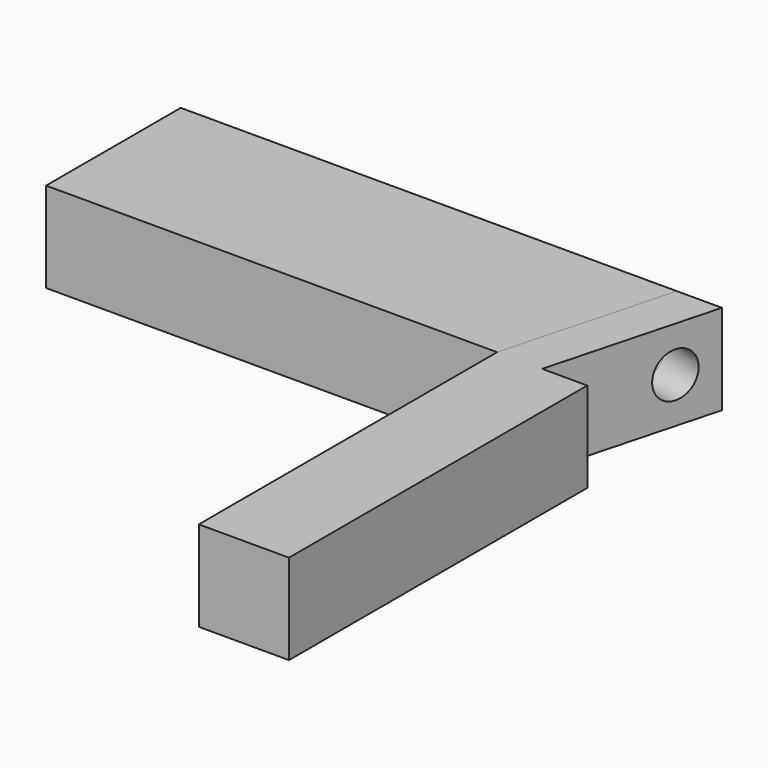
from build123d import *

# Parameters (mm, degrees)
F1_DEPTH = 10
F0_W     = 50
F0_H     = 18.660254
F2_DEPTH = 10
F4_D     = 5
F4_2_D   = 5


with BuildPart() as f1:
    # F0 (on Top) → F1 (new body)
    with BuildSketch(Plane.XY):
        Polygon((10, 0), (5, 0), (0, -18.660254), (0, -60), (10, -60), (10, -18.660254), (5, -18.660254), align=None)
    extrude(amount=F1_DEPTH)

    # F4 (through all)
    with Locations(Plane(origin=(9.330127, -2.5, 0), x_dir=(0.258819, 0.965926, 0), z_dir=(0.965926, -0.258819, 0))):
        with Locations((-2.41181, 5)):
            Hole(F4_D / 2)


with BuildPart() as f2:
    # F0 (on Top) → F2 (new body)
    with BuildSketch(Plane.XY):
        with Locations((-25, -9.330127)):
            Rectangle(F0_W, F0_H)
        Polygon((5, 0), (0, 0), (0, -18.660254), align=None)
    extrude(amount=F2_DEPTH)

    # F4#2 (through all)
    with Locations(Plane(origin=(9.330127, -2.5, 0), x_dir=(0.258819, 0.965926, 0), z_dir=(0.965926, -0.258819, 0))):
        with Locations((-2.41181, 5)):
            Hole(F4_2_D / 2)


solid = Compound([f1.part, f2.part])
